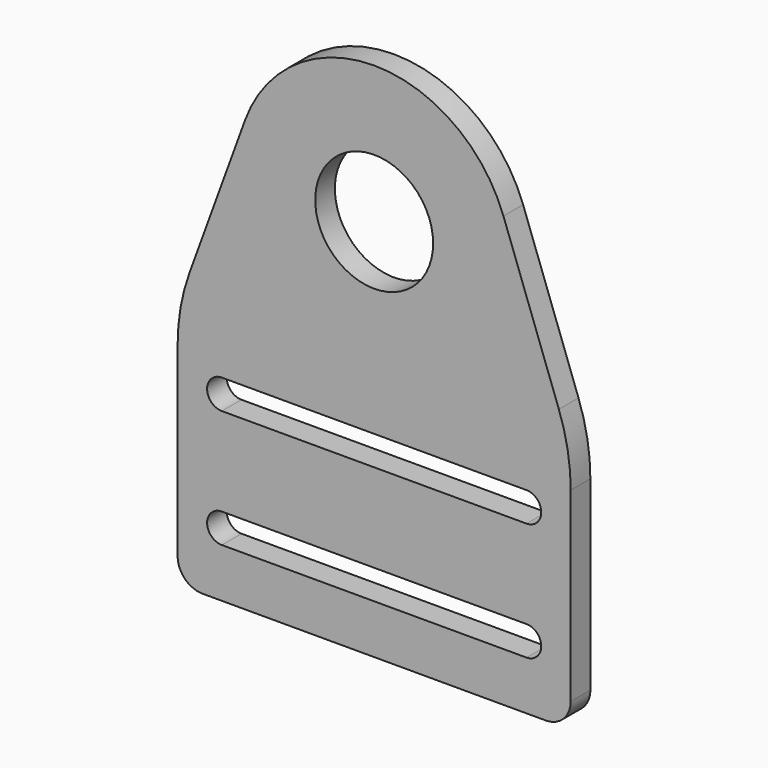
from build123d import *

# Parameters (mm, degrees)
F0_R     = 6
F1_DEPTH = 2.5
F2_DEPTH = 8
F3_R     = 1.54


with BuildPart() as f1:
    # F0 (on Front) → F1 (new body)
    with BuildSketch(Plane.XZ):
        with BuildLine():
            ThreePointArc((-20, -9.96), (-19.256051, -11.756051), (-17.46, -12.5))
            Line((-17.46, -12.5), (17.46, -12.5))
            ThreePointArc((17.46, -12.5), (19.256051, -11.756051), (20, -9.96))
            Line((20, -9.96), (20, 8.970588))
            ThreePointArc((20, 8.970588), (19.695671, 12.446295), (18.791946, 15.816226))
            Line((18.791946, 15.816226), (13.154362, 31.291946))
            ThreePointArc((13.154362, 31.291946), (0, 40.5), (-13.154362, 31.291946))
            Line((-13.154362, 31.291946), (-18.791946, 15.816226))
            ThreePointArc((-18.791946, 15.816226), (-19.695671, 12.446295), (-20, 8.970588))
            Line((-20, 8.970588), (-20, -9.96))
        make_face()
        with BuildLine():
            ThreePointArc((-15.5, -7.5), (-17, -6), (-15.5, -4.5))
            Line((-15.5, -4.5), (15.5, -4.5))
            ThreePointArc((15.5, -4.5), (17, -6), (15.5, -7.5))
            Line((15.5, -7.5), (-15.5, -7.5))
        make_face(mode=Mode.SUBTRACT)
        with BuildLine():
            Line((15.5, 4.5), (-15.5, 4.5))
            ThreePointArc((-15.5, 4.5), (-17, 6), (-15.5, 7.5))
            Line((-15.5, 7.5), (15.5, 7.5))
            ThreePointArc((15.5, 7.5), (17, 6), (15.5, 4.5))
        make_face(mode=Mode.SUBTRACT)
        with Locations((0, 26.5)):
            Circle(F0_R, mode=Mode.SUBTRACT)
    extrude(amount=F1_DEPTH)


with BuildPart() as f2:
    # F0 (on Front) → F2 (new body)
    with BuildSketch(Plane.XZ):
        with Locations((0, 26.5)):
            Circle(F0_R)
    extrude(amount=F2_DEPTH)

    # F3
    f3_edges = [f2.edges().sort_by_distance(p)[0] for p in [
        (-6, -8, 26.5),
    ]]
    fillet(f3_edges, radius=F3_R)


solid = f1.part
